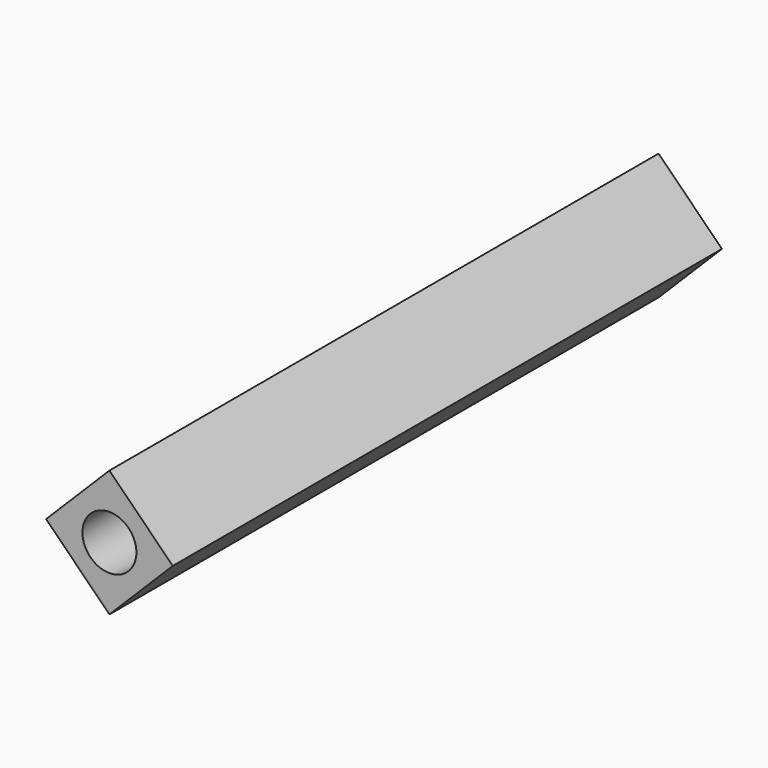
from build123d import *

# Parameters (mm, degrees)
F0_R     = 5.897707
F1_DEPTH = 150


with BuildPart() as f1:
    # F0 (on Front) → F1 (new body)
    with BuildSketch(Plane.XZ):
        Polygon((-13.840066, 13.840066), (-27.680131, 0), (-13.840066, -13.840066), (0, 0), align=None)
        with Locations((-13.840066, 0)):
            Circle(F0_R, mode=Mode.SUBTRACT)
        Polygon((-13.840066, 13.840066), (-27.680131, 0), (-13.840066, -13.840066), (0, 0), align=None)
        with Locations((-13.840066, 0)):
            Circle(F0_R, mode=Mode.SUBTRACT)
    extrude(amount=F1_DEPTH)


solid = f1.part
